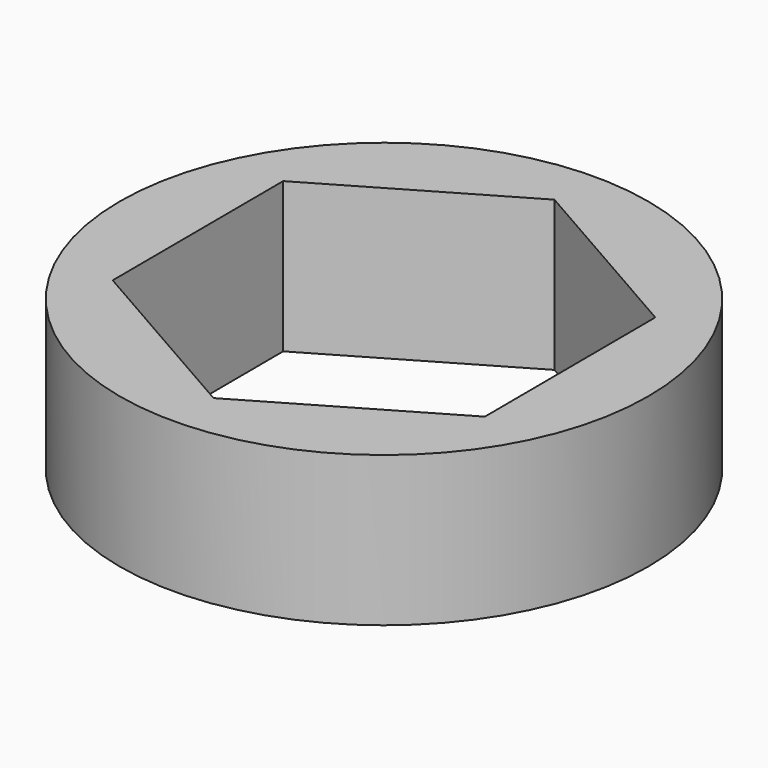
from build123d import *

# Parameters (mm, degrees)
F0_R     = 68.927243
F1_DEPTH = 39.116
F3_DEPTH = 39.117


with BuildPart() as f1:
    # F0 (on Top) → F1 (new body)
    with BuildSketch(Plane.XY):
        Circle(F0_R)
    extrude(amount=F1_DEPTH)

    # F2 (on Top) → F3 (cut, through all)
    with BuildSketch(Plane.XY):
        Polygon((-0.229635, 55.890525), (-48.517432, 27.746392), (-48.287797, -28.144132), (0.229635, -55.890525), (48.517432, -27.746392), (48.287797, 28.144132), align=None)
    extrude(amount=F3_DEPTH, mode=Mode.SUBTRACT)


solid = f1.part
